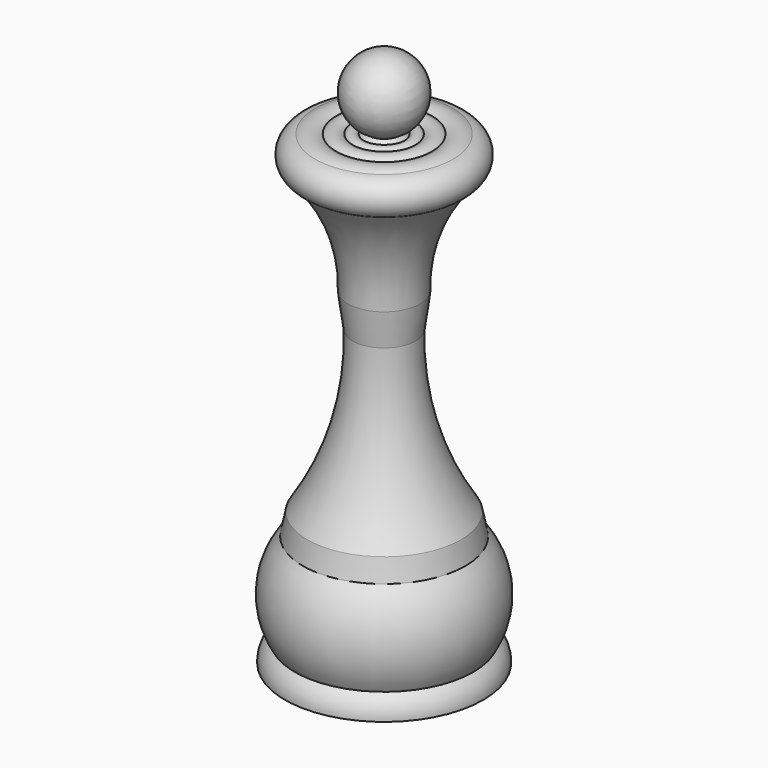
from build123d import *


with BuildPart() as f1:
    # F0 (on Front) → F1 (revolve)
    with BuildSketch(Plane.XZ):
        with BuildLine():
            Line((0, 63.748053), (0, 0))
            Line((0, 0), (13.797337, 0))
            ThreePointArc((13.797337, 0), (13.497352, 1.665515), (12.423157, 2.973198))
            ThreePointArc((12.423157, 2.973198), (13.915613, 9.469521), (11.314946, 15.606798))
            Line((11.314946, 15.606798), (10.694349, 18.621131))
            ThreePointArc((10.694349, 18.621131), (5.826542, 29.288025), (4.402569, 40.926344))
            ThreePointArc((4.402569, 40.926344), (4.735157, 43.301576), (5.029775, 45.681816))
            ThreePointArc((5.029775, 45.681816), (6.250251, 53.312837), (10.169158, 59.973485))
            ThreePointArc((10.169158, 59.973485), (11.803933, 62.658917), (9.592888, 64.893938))
            Line((9.592888, 64.893938), (6.67669, 64.893938))
            Line((6.67669, 64.893938), (4.323768, 64.893938))
            Line((4.323768, 64.893938), (2.765174, 64.893938))
            Line((2.765174, 64.893938), (0, 64.893938))
            Line((0, 64.893938), (0, 63.748053))
        make_face()
        with BuildLine():
            Line((0, 75), (0, 64.893938))
            Line((0, 64.893938), (2.765174, 64.893938))
            Line((2.765174, 64.893938), (2.245096, 65.420087))
            ThreePointArc((2.245096, 65.420087), (4.919736, 71.099931), (0, 75))
        make_face()
        with BuildLine():
            ThreePointArc((4.323768, 64.893938), (3.544471, 65.24945), (2.765174, 64.893938))
            Line((2.765174, 64.893938), (4.323768, 64.893938))
        make_face()
        with BuildLine():
            ThreePointArc((6.67669, 64.893938), (5.500229, 65.332926), (4.323768, 64.893938))
            Line((4.323768, 64.893938), (6.67669, 64.893938))
        make_face()
        with BuildLine():
            ThreePointArc((9.592888, 64.893938), (8.134789, 65.292607), (6.67669, 64.893938))
            Line((6.67669, 64.893938), (9.592888, 64.893938))
        make_face()
    revolve(axis=Axis((0, 0, 31.874027), (0, 0, -1)))


solid = f1.part
